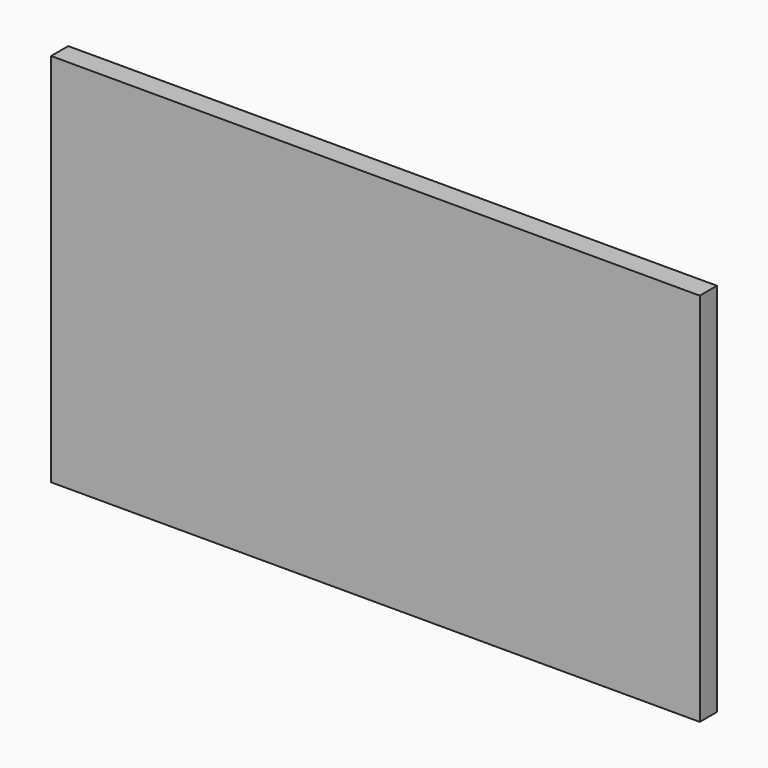
from build123d import *

# Parameters (mm, degrees)
CYLINDER_R       = 1.5
CYLINDER_DEPTH   = 10
ARRAY001_X_COUNT = 2
ARRAY001_X_PITCH = 43.4
ARRAY001_Z_COUNT = 2
ARRAY001_Z_PITCH = 20.4
BOX002_W         = 48.4
BOX002_H         = 1.6
BOX002_DEPTH     = 28


with BuildPart() as hole_array_clone:
    # Cylinder → Cylinder (new body)
    with BuildSketch(Plane(origin=(0, 0, 0), x_dir=(1, 0, 0), z_dir=(0, 1, 0))):
        Circle(CYLINDER_R)
    extrude(amount=CYLINDER_DEPTH)

    # Array001 X: hole array clone ×2


with BuildPart() as hole_array_clone_1:
    add(hole_array_clone.part)
    with Locations(*[(i * ARRAY001_X_PITCH, 0, 0) for i in range(1, ARRAY001_X_COUNT)]):
        add(hole_array_clone.part)

    # Array001 Z: hole array clone ×2


with BuildPart() as hole_array_clone_2:
    add(hole_array_clone_1.part)
    with Locations(*[(0, 0, i * ARRAY001_Z_PITCH) for i in range(1, ARRAY001_Z_COUNT)]):
        add(hole_array_clone_1.part)


with BuildPart() as hole_array_clone_3:
    # Array001 placement: moved
    add(hole_array_clone_2.part.moved(Location((2.5, 0, 9.8))))


with BuildPart() as pcb_mockup:
    # Box002 → Box002 (new body)
    with BuildSketch(Plane(origin=(0, 10, 6), x_dir=(1, 0, 0), z_dir=(0, 0, 1))):
        with Locations((24.2, 0.8)):
            Rectangle(BOX002_W, BOX002_H)
    extrude(amount=BOX002_DEPTH)

    # Cut: cut hole array clone
    add(hole_array_clone_3.part, mode=Mode.SUBTRACT)


solid = pcb_mockup.part
